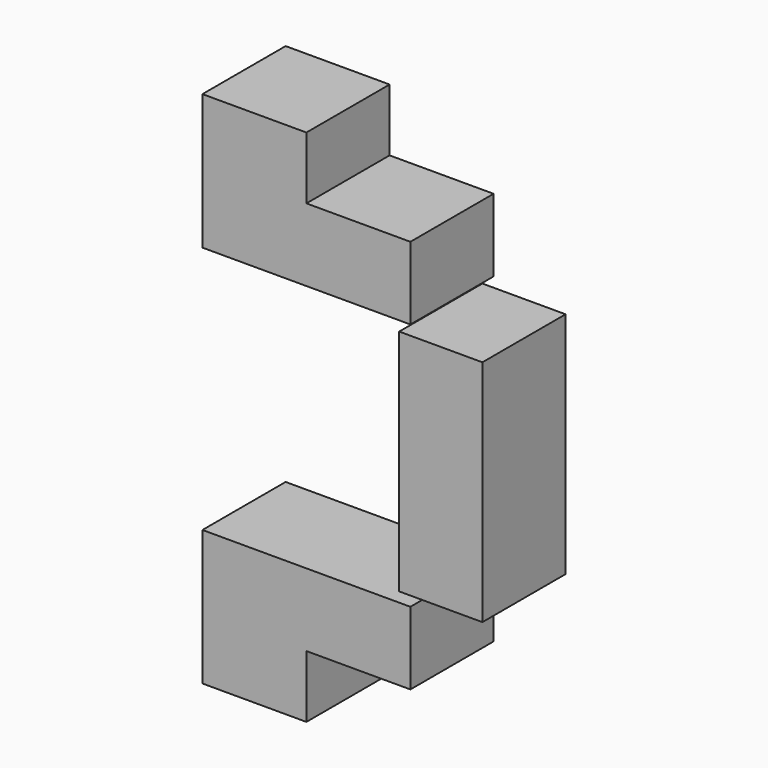
from build123d import *

# Parameters (mm, degrees)
F0_W     = 25
F0_H     = 15
F1_DEPTH = 12.5
F0_W_2   = 20
F0_H_2   = 55


with BuildPart() as f1:
    # F0 (on Front) → F1 (new body, symmetric)
    with BuildSketch(Plane.XZ):
        Polygon((25, 47.3774689436), (0, 47.3774689436), (0, 29.8774689436), (50, 29.8774689436), (50, 47.3774689436), align=None)
        with Locations((12.5, 54.8774689436)):
            Rectangle(F0_W, F0_H)
    extrude(amount=F1_DEPTH, both=True)


with BuildPart() as f1b:
    # F0 (on Front) → F1, piece 2 (new body, symmetric)
    with BuildSketch(Plane.XZ):
        Polygon((0, -29.8774689436), (0, -47.3774689436), (25, -47.3774689436), (50, -47.3774689436), (50, -29.8774689436), align=None)
        with Locations((12.5, -54.8774689436)):
            Rectangle(F0_W, F0_H)
    extrude(amount=F1_DEPTH, both=True)


with BuildPart() as f1c:
    # F0 (on Front) → F1, piece 3 (new body, symmetric)
    with BuildSketch(Plane.XZ):
        with Locations((57.3086179793, 0)):
            Rectangle(F0_W_2, F0_H_2)
    extrude(amount=F1_DEPTH, both=True)


solid = Compound([f1.part, f1b.part, f1c.part])
